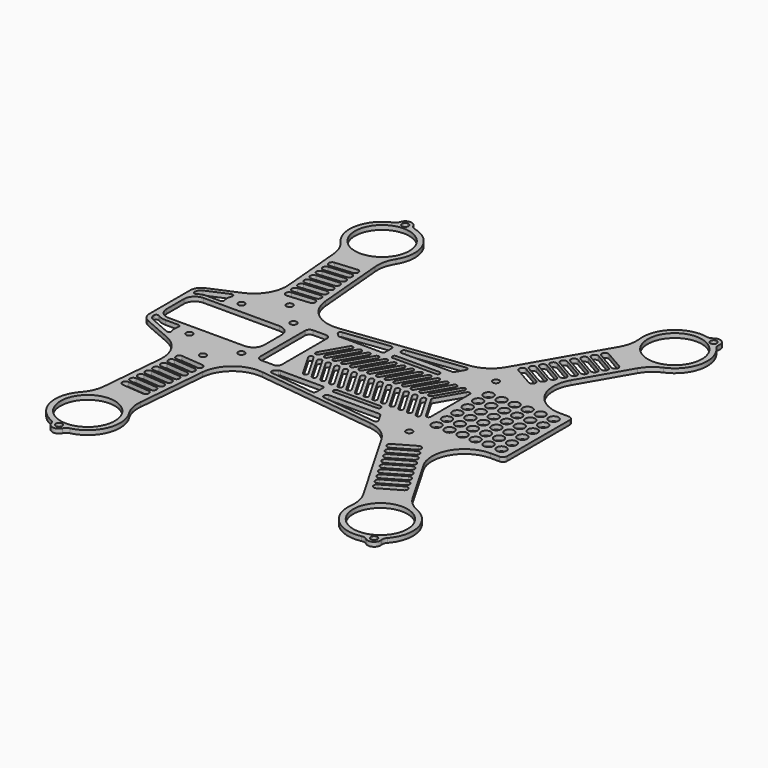
from build123d import *

# Parameters (mm, degrees)
F0_R     = 1.5
F0_R_2   = 12.5
F0_R_3   = 2.242641
F1_DEPTH = 2


with BuildPart() as f1:
    # F0 (on Top) → F1 (new body)
    with BuildSketch(Plane.XY):
        with BuildLine():
            ThreePointArc((-62.396949, -66.154583), (-63.577186, -70.812861), (-66.169935, -74.858868))
            ThreePointArc((-66.169935, -74.858868), (-69.646273, -88.108806), (-60.907895, -98.658048))
            ThreePointArc((-60.907895, -98.658048), (-59.830375, -99.441611), (-59.198405, -100.614485))
            ThreePointArc((-59.198405, -100.614485), (-56.568803, -102.801994), (-53.599294, -101.104344))
            ThreePointArc((-53.599294, -101.104344), (-52.773258, -100.059029), (-51.576044, -99.47448))
            ThreePointArc((-51.576044, -99.47448), (-41.138565, -90.602907), (-42.261262, -76.950606))
            ThreePointArc((-42.261262, -76.950606), (-44.112039, -72.515841), (-44.465444, -67.723387))
            Line((-44.465444, -67.723387), (-41.643975, -35.473847))
            ThreePointArc((-41.643975, -35.473847), (-36.140861, -25.123994), (-24.873015, -21.892991))
            Line((-24.873015, -21.892991), (30.259156, -28.66237))
            ThreePointArc((30.259156, -28.66237), (36.710171, -31.042275), (41.421497, -36.050563))
            Line((41.421497, -36.050563), (63.205771, -73.782032))
            ThreePointArc((63.205771, -73.782032), (64.910856, -78.274827), (65.107695, -83.076261))
            ThreePointArc((65.107695, -83.076261), (69.859898, -95.92392), (83.068755, -99.553226))
            ThreePointArc((83.068755, -99.553226), (84.40084, -99.577043), (85.591253, -100.175322))
            ThreePointArc((85.591253, -100.175322), (89, -100.458947), (90.458747, -97.365073))
            ThreePointArc((90.458747, -97.365073), (90.535829, -96.035006), (91.181245, -94.869477))
            ThreePointArc((91.181245, -94.869477), (94.642603, -81.615618), (85.892305, -71.076261))
            ThreePointArc((85.892305, -71.076261), (81.83256, -68.505076), (78.794229, -64.782032))
            Line((78.794229, -64.782032), (65.929691, -42.5))
            ThreePointArc((65.929691, -42.5), (65.929691, -27.5), (78.920072, -20))
            Line((78.920072, -20), (83, -20))
            ThreePointArc((83, -20), (84.414214, -19.414214), (85, -18))
            Line((85, -18), (85, 0))
            Line((85, 0), (85, 18))
            ThreePointArc((85, 18), (84.414214, 19.414214), (83, 20))
            Line((83, 20), (78.920072, 20))
            ThreePointArc((78.920072, 20), (65.929691, 27.5), (65.929691, 42.5))
            Line((65.929691, 42.5), (78.794229, 64.782032))
            ThreePointArc((78.794229, 64.782032), (81.83256, 68.505076), (85.892305, 71.076261))
            ThreePointArc((85.892305, 71.076261), (94.642603, 81.615618), (91.181245, 94.869477))
            ThreePointArc((91.181245, 94.869477), (90.535829, 96.035006), (90.458747, 97.365073))
            ThreePointArc((90.458747, 97.365073), (89, 100.458947), (85.591253, 100.175322))
            ThreePointArc((85.591253, 100.175322), (84.40084, 99.577043), (83.068755, 99.553226))
            ThreePointArc((83.068755, 99.553226), (69.859898, 95.92392), (65.107695, 83.076261))
            ThreePointArc((65.107695, 83.076261), (64.910856, 78.274827), (63.205771, 73.782032))
            Line((63.205771, 73.782032), (41.421497, 36.050563))
            ThreePointArc((41.421497, 36.050563), (36.710171, 31.042275), (30.259156, 28.66237))
            Line((30.259156, 28.66237), (-24.873015, 21.892991))
            ThreePointArc((-24.873015, 21.892991), (-36.140861, 25.123994), (-41.643975, 35.473847))
            Line((-41.643975, 35.473847), (-44.465444, 67.723387))
            ThreePointArc((-44.465444, 67.723387), (-44.112039, 72.515841), (-42.261262, 76.950606))
            ThreePointArc((-42.261262, 76.950606), (-41.138565, 90.602907), (-51.576044, 99.47448))
            ThreePointArc((-51.576044, 99.47448), (-52.773258, 100.059029), (-53.599294, 101.104344))
            ThreePointArc((-53.599294, 101.104344), (-56.568803, 102.801994), (-59.198405, 100.614485))
            ThreePointArc((-59.198405, 100.614485), (-59.830375, 99.441611), (-60.907895, 98.658048))
            ThreePointArc((-60.907895, 98.658048), (-69.646273, 88.108806), (-66.169935, 74.858868))
            ThreePointArc((-66.169935, 74.858868), (-63.577186, 70.812861), (-62.396949, 66.154583))
            Line((-62.396949, 66.154583), (-59.853056, 37.077755))
            ThreePointArc((-59.853056, 37.077755), (-61.909477, 28.093302), (-68.831225, 22.007362))
            Line((-68.831225, 22.007362), (-81.98825, 16.305258))
            ThreePointArc((-81.98825, 16.305258), (-84.179788, 14.461543), (-85, 11.717572))
            Line((-85, 11.717572), (-85, 0))
            Line((-85, 0), (-85, -11.717572))
            ThreePointArc((-85, -11.717572), (-84.179788, -14.461543), (-81.98825, -16.305258))
            Line((-81.98825, -16.305258), (-68.831225, -22.007362))
            ThreePointArc((-68.831225, -22.007362), (-61.909477, -28.093302), (-59.853056, -37.077755))
            Line((-59.853056, -37.077755), (-62.396949, -66.154583))
        make_face()
        with Locations((-56.307336, -99.81341)):
            Circle(F0_R, mode=Mode.SUBTRACT)
        with Locations((-55, -84.87049)):
            Circle(F0_R_2, mode=Mode.SUBTRACT)
        with BuildLine():
            Line((-47.970867, -61.895693), (-57.932814, -61.024135))
            ThreePointArc((-57.932814, -61.024135), (-59.296372, -59.39911), (-57.671346, -58.035551))
            Line((-57.671346, -58.035551), (-47.709399, -58.907109))
            ThreePointArc((-47.709399, -58.907109), (-46.345841, -60.532134), (-47.970867, -61.895693))
        make_face(mode=Mode.SUBTRACT)
        with BuildLine():
            Line((-47.622244, -57.910914), (-57.584191, -57.039357))
            ThreePointArc((-57.584191, -57.039357), (-58.947749, -55.414331), (-57.322723, -54.050773))
            Line((-57.322723, -54.050773), (-47.360776, -54.92233))
            ThreePointArc((-47.360776, -54.92233), (-45.997218, -56.547356), (-47.622244, -57.910914))
        make_face(mode=Mode.SUBTRACT)
        with BuildLine():
            Line((-47.273621, -53.926135), (-57.235568, -53.054578))
            ThreePointArc((-57.235568, -53.054578), (-58.599126, -51.429552), (-56.9741, -50.065994))
            Line((-56.9741, -50.065994), (-47.012153, -50.937551))
            ThreePointArc((-47.012153, -50.937551), (-45.648595, -52.562577), (-47.273621, -53.926135))
        make_face(mode=Mode.SUBTRACT)
        with BuildLine():
            Line((-46.924998, -49.941357), (-56.886945, -49.069799))
            ThreePointArc((-56.886945, -49.069799), (-58.250503, -47.444773), (-56.625477, -46.081215))
            Line((-56.625477, -46.081215), (-46.66353, -46.952772))
            ThreePointArc((-46.66353, -46.952772), (-45.299972, -48.577798), (-46.924998, -49.941357))
        make_face(mode=Mode.SUBTRACT)
        with BuildLine():
            Line((-46.576375, -45.956578), (-56.538322, -45.08502))
            ThreePointArc((-56.538322, -45.08502), (-57.90188, -43.459995), (-56.276854, -42.096436))
            Line((-56.276854, -42.096436), (-46.314907, -42.967994))
            ThreePointArc((-46.314907, -42.967994), (-44.951349, -44.593019), (-46.576375, -45.956578))
        make_face(mode=Mode.SUBTRACT)
        with BuildLine():
            Line((-46.227752, -41.971799), (-56.189699, -41.100241))
            ThreePointArc((-56.189699, -41.100241), (-57.553257, -39.475216), (-55.928231, -38.111657))
            Line((-55.928231, -38.111657), (-45.966284, -38.983215))
            ThreePointArc((-45.966284, -38.983215), (-44.602726, -40.60824), (-46.227752, -41.971799))
        make_face(mode=Mode.SUBTRACT)
        with BuildLine():
            Line((-45.879129, -37.98702), (-55.841076, -37.115463))
            ThreePointArc((-55.841076, -37.115463), (-57.204634, -35.490437), (-55.579608, -34.126879))
            Line((-55.579608, -34.126879), (-45.617662, -34.998436))
            ThreePointArc((-45.617662, -34.998436), (-44.254103, -36.623462), (-45.879129, -37.98702))
        make_face(mode=Mode.SUBTRACT)
        with BuildLine():
            Line((-45.530506, -34.002241), (-55.492453, -33.130684))
            ThreePointArc((-55.492453, -33.130684), (-56.856011, -31.505658), (-55.230986, -30.1421))
            Line((-55.230986, -30.1421), (-45.269039, -31.013657))
            ThreePointArc((-45.269039, -31.013657), (-43.90548, -32.638683), (-45.530506, -34.002241))
        make_face(mode=Mode.SUBTRACT)
        with BuildLine():
            ThreePointArc((-83, -11.614378), (-82.467707, -10.730495), (-81.4375, -10.787581))
            ThreePointArc((-81.4375, -10.787581), (-79.559968, -11.690032), (-77.5, -12))
            Line((-77.5, -12), (-71.417583, -12))
            ThreePointArc((-71.417583, -12), (-70.623753, -12.39186), (-70.452064, -13.260333))
            ThreePointArc((-70.452064, -13.260333), (-70.674437, -15.327816), (-70.250533, -17.363558))
            ThreePointArc((-70.250533, -17.363558), (-70.495756, -18.44093), (-71.583544, -18.63479))
            Line((-71.583544, -18.63479), (-81.19295, -14.470183))
            ThreePointArc((-81.19295, -14.470183), (-82.507873, -13.363954), (-83, -11.717572))
            Line((-83, -11.717572), (-83, -11.614378))
        make_face(mode=Mode.SUBTRACT)
        with Locations((-64, -15)):
            Circle(F0_R, mode=Mode.SUBTRACT)
        with Locations((-49.762011, -25)):
            Circle(F0_R, mode=Mode.SUBTRACT)
        with Locations((-40, -15)):
            Circle(F0_R, mode=Mode.SUBTRACT)
        with BuildLine():
            Line((-1.121869, -22.794245), (-21.84415, -20.249869))
            ThreePointArc((-21.84415, -20.249869), (-22.667799, -19.582891), (-22.429387, -18.550216))
            Line((-22.429387, -18.550216), (-21.172064, -17.292893))
            ThreePointArc((-21.172064, -17.292893), (-20.847641, -17.07612), (-20.464957, -17))
            Line((-20.464957, -17), (-1, -17))
            ThreePointArc((-1, -17), (-0.292893, -17.292893), (0, -18))
            Line((0, -18), (0, -21.801699))
            ThreePointArc((0, -21.801699), (-0.33738, -22.550655), (-1.121869, -22.794245))
        make_face(mode=Mode.SUBTRACT)
        with BuildLine():
            ThreePointArc((-19.216878, -2.5), (-18.850853, -1.133975), (-17.484828, -1.5))
            Line((-17.484828, -1.5), (-11.133975, -12.5))
            ThreePointArc((-11.133975, -12.5), (-11.5, -13.866025), (-12.866025, -13.5))
            Line((-12.866025, -13.5), (-19.216878, -2.5))
        make_face(mode=Mode.SUBTRACT)
        with BuildLine():
            ThreePointArc((-15.216878, -2.5), (-14.850853, -1.133975), (-13.484828, -1.5))
            Line((-13.484828, -1.5), (-7.133975, -12.5))
            ThreePointArc((-7.133975, -12.5), (-7.5, -13.866025), (-8.866025, -13.5))
            Line((-8.866025, -13.5), (-15.216878, -2.5))
        make_face(mode=Mode.SUBTRACT)
        with BuildLine():
            ThreePointArc((-11.216878, -2.5), (-10.850853, -1.133975), (-9.484828, -1.5))
            Line((-9.484828, -1.5), (-3.133975, -12.5))
            ThreePointArc((-3.133975, -12.5), (-3.5, -13.866025), (-4.866025, -13.5))
            Line((-4.866025, -13.5), (-11.216878, -2.5))
        make_face(mode=Mode.SUBTRACT)
        with BuildLine():
            ThreePointArc((-7.216878, -2.5), (-6.850853, -1.133975), (-5.484828, -1.5))
            Line((-5.484828, -1.5), (0.866025, -12.5))
            ThreePointArc((0.866025, -12.5), (0.5, -13.866025), (-0.866025, -13.5))
            Line((-0.866025, -13.5), (-7.216878, -2.5))
        make_face(mode=Mode.SUBTRACT)
        with BuildLine():
            ThreePointArc((-3.216878, -2.5), (-2.850853, -1.133975), (-1.484828, -1.5))
            Line((-1.484828, -1.5), (4.866025, -12.5))
            ThreePointArc((4.866025, -12.5), (4.5, -13.866025), (3.133975, -13.5))
            Line((3.133975, -13.5), (-3.216878, -2.5))
        make_face(mode=Mode.SUBTRACT)
        with BuildLine():
            ThreePointArc((0.783122, -2.5), (1.149147, -1.133975), (2.515172, -1.5))
            Line((2.515172, -1.5), (8.866025, -12.5))
            ThreePointArc((8.866025, -12.5), (8.5, -13.866025), (7.133975, -13.5))
            Line((7.133975, -13.5), (0.783122, -2.5))
        make_face(mode=Mode.SUBTRACT)
        with Locations((87.5, -97.860871)):
            Circle(F0_R, mode=Mode.SUBTRACT)
        with Locations((80, -84.87049)):
            Circle(F0_R_2, mode=Mode.SUBTRACT)
        with BuildLine():
            Line((70.580127, -58.554791), (61.919873, -63.554791))
            ThreePointArc((61.919873, -63.554791), (59.870835, -63.005753), (60.419873, -60.956715))
            Line((60.419873, -60.956715), (69.080127, -55.956715))
            ThreePointArc((69.080127, -55.956715), (71.129165, -56.505753), (70.580127, -58.554791))
        make_face(mode=Mode.SUBTRACT)
        with BuildLine():
            Line((72.580127, -62.018893), (63.919873, -67.018893))
            ThreePointArc((63.919873, -67.018893), (61.870835, -66.469854), (62.419873, -64.420816))
            Line((62.419873, -64.420816), (71.080127, -59.420816))
            ThreePointArc((71.080127, -59.420816), (73.129165, -59.969854), (72.580127, -62.018893))
        make_face(mode=Mode.SUBTRACT)
        with BuildLine():
            Line((68.580127, -55.090689), (59.919873, -60.090689))
            ThreePointArc((59.919873, -60.090689), (57.870835, -59.541651), (58.419873, -57.492613))
            Line((58.419873, -57.492613), (67.080127, -52.492613))
            ThreePointArc((67.080127, -52.492613), (69.129165, -53.041651), (68.580127, -55.090689))
        make_face(mode=Mode.SUBTRACT)
        with BuildLine():
            Line((66.580127, -51.626588), (57.919873, -56.626588))
            ThreePointArc((57.919873, -56.626588), (55.870835, -56.07755), (56.419873, -54.028512))
            Line((56.419873, -54.028512), (65.080127, -49.028512))
            ThreePointArc((65.080127, -49.028512), (67.129165, -49.57755), (66.580127, -51.626588))
        make_face(mode=Mode.SUBTRACT)
        with BuildLine():
            Line((25, -18), (5, -18))
            ThreePointArc((5, -18), (4, -17), (5, -16))
            Line((5, -16), (25, -16))
            ThreePointArc((25, -16), (26, -17), (25, -18))
        make_face(mode=Mode.SUBTRACT)
        with BuildLine():
            ThreePointArc((4.878131, -23.530953), (4.251044, -23.201027), (4, -22.538406))
            Line((4, -22.538406), (4, -22))
            ThreePointArc((4, -22), (4.292893, -21.292893), (5, -21))
            Line((5, -21), (28.42265, -21))
            ThreePointArc((28.42265, -21), (28.92265, -21.133975), (29.288675, -21.5))
            Line((29.288675, -21.5), (31.410354, -25.174856))
            ThreePointArc((31.410354, -25.174856), (31.378214, -26.226793), (30.422459, -26.667402))
            Line((30.422459, -26.667402), (4.878131, -23.530953))
        make_face(mode=Mode.SUBTRACT)
        with BuildLine():
            ThreePointArc((4.783122, -2.5), (5.149147, -1.133975), (6.515172, -1.5))
            Line((6.515172, -1.5), (12.866025, -12.5))
            ThreePointArc((12.866025, -12.5), (12.5, -13.866025), (11.133975, -13.5))
            Line((11.133975, -13.5), (4.783122, -2.5))
        make_face(mode=Mode.SUBTRACT)
        with BuildLine():
            ThreePointArc((8.783122, -2.5), (9.149147, -1.133975), (10.515172, -1.5))
            Line((10.515172, -1.5), (16.866025, -12.5))
            ThreePointArc((16.866025, -12.5), (16.5, -13.866025), (15.133975, -13.5))
            Line((15.133975, -13.5), (8.783122, -2.5))
        make_face(mode=Mode.SUBTRACT)
        with BuildLine():
            ThreePointArc((12.783122, -2.5), (13.149147, -1.133975), (14.515172, -1.5))
            Line((14.515172, -1.5), (20.866025, -12.5))
            ThreePointArc((20.866025, -12.5), (20.5, -13.866025), (19.133975, -13.5))
            Line((19.133975, -13.5), (12.783122, -2.5))
        make_face(mode=Mode.SUBTRACT)
        with BuildLine():
            ThreePointArc((16.783122, -2.5), (17.149147, -1.133975), (18.515172, -1.5))
            Line((18.515172, -1.5), (24.866025, -12.5))
            ThreePointArc((24.866025, -12.5), (24.5, -13.866025), (23.133975, -13.5))
            Line((23.133975, -13.5), (16.783122, -2.5))
        make_face(mode=Mode.SUBTRACT)
        with BuildLine():
            ThreePointArc((20.783122, -2.5), (21.149147, -1.133975), (22.515172, -1.5))
            Line((22.515172, -1.5), (28.866025, -12.5))
            ThreePointArc((28.866025, -12.5), (28.5, -13.866025), (27.133975, -13.5))
            Line((27.133975, -13.5), (20.783122, -2.5))
        make_face(mode=Mode.SUBTRACT)
        with Locations((45.433757, -25)):
            Circle(F0_R, mode=Mode.SUBTRACT)
        with BuildLine():
            ThreePointArc((24.783122, -2.5), (25.149147, -1.133975), (26.515172, -1.5))
            Line((26.515172, -1.5), (32.866025, -12.5))
            ThreePointArc((32.866025, -12.5), (32.5, -13.866025), (31.133975, -13.5))
            Line((31.133975, -13.5), (24.783122, -2.5))
        make_face(mode=Mode.SUBTRACT)
        with BuildLine():
            ThreePointArc((28.783122, -2.5), (29.149147, -1.133975), (30.515172, -1.5))
            Line((30.515172, -1.5), (36.866025, -12.5))
            ThreePointArc((36.866025, -12.5), (36.5, -13.866025), (35.133975, -13.5))
            Line((35.133975, -13.5), (28.783122, -2.5))
        make_face(mode=Mode.SUBTRACT)
        with BuildLine():
            Line((39.133975, -13.5), (32.783122, -2.5))
            ThreePointArc((32.783122, -2.5), (33.149147, -1.133975), (34.515172, -1.5))
            Line((34.515172, -1.5), (40.866025, -12.5))
            ThreePointArc((40.866025, -12.5), (40.5, -13.866025), (39.133975, -13.5))
        make_face(mode=Mode.SUBTRACT)
        with BuildLine():
            Line((44.309401, 11.267949), (44.309401, -11.267949))
            ThreePointArc((44.309401, -11.267949), (43.56822, -12.233875), (42.443376, -11.767949))
            Line((42.443376, -11.767949), (35.937822, -0.5))
            ThreePointArc((35.937822, -0.5), (35.803848, 0), (35.937822, 0.5))
            Line((35.937822, 0.5), (42.443376, 11.767949))
            ThreePointArc((42.443376, 11.767949), (43.56822, 12.233875), (44.309401, 11.267949))
        make_face(mode=Mode.SUBTRACT)
        with BuildLine():
            Line((64.580127, -48.162486), (55.919873, -53.162486))
            ThreePointArc((55.919873, -53.162486), (53.870835, -52.613448), (54.419873, -50.56441))
            Line((54.419873, -50.56441), (63.080127, -45.56441))
            ThreePointArc((63.080127, -45.56441), (65.129165, -46.113448), (64.580127, -48.162486))
        make_face(mode=Mode.SUBTRACT)
        with BuildLine():
            Line((62.580127, -44.698385), (53.919873, -49.698385))
            ThreePointArc((53.919873, -49.698385), (51.870835, -49.149346), (52.419873, -47.100308))
            Line((52.419873, -47.100308), (61.080127, -42.100308))
            ThreePointArc((61.080127, -42.100308), (63.129165, -42.649346), (62.580127, -44.698385))
        make_face(mode=Mode.SUBTRACT)
        with BuildLine():
            Line((60.580127, -41.234283), (51.919873, -46.234283))
            ThreePointArc((51.919873, -46.234283), (49.870835, -45.685245), (50.419873, -43.636207))
            Line((50.419873, -43.636207), (59.080127, -38.636207))
            ThreePointArc((59.080127, -38.636207), (61.129165, -39.185245), (60.580127, -41.234283))
        make_face(mode=Mode.SUBTRACT)
        with BuildLine():
            Line((58.580127, -37.770181), (49.919873, -42.770181))
            ThreePointArc((49.919873, -42.770181), (47.870835, -42.221143), (48.419873, -40.172105))
            Line((48.419873, -40.172105), (57.080127, -35.172105))
            ThreePointArc((57.080127, -35.172105), (59.129165, -35.721143), (58.580127, -37.770181))
        make_face(mode=Mode.SUBTRACT)
        with BuildLine():
            Line((56.580127, -34.30608), (47.919873, -39.30608))
            ThreePointArc((47.919873, -39.30608), (45.870835, -38.757042), (46.419873, -36.708003))
            Line((46.419873, -36.708003), (55.080127, -31.708003))
            ThreePointArc((55.080127, -31.708003), (57.129165, -32.257042), (56.580127, -34.30608))
        make_face(mode=Mode.SUBTRACT)
        with Locations((50, -15)):
            Circle(F0_R_3, mode=Mode.SUBTRACT)
        with Locations((56, -15)):
            Circle(F0_R_3, mode=Mode.SUBTRACT)
        with Locations((62, -15)):
            Circle(F0_R_3, mode=Mode.SUBTRACT)
        with Locations((68, -15)):
            Circle(F0_R_3, mode=Mode.SUBTRACT)
        with Locations((50, -9)):
            Circle(F0_R_3, mode=Mode.SUBTRACT)
        with Locations((56, -9)):
            Circle(F0_R_3, mode=Mode.SUBTRACT)
        with Locations((50, -3)):
            Circle(F0_R_3, mode=Mode.SUBTRACT)
        with Locations((56, -3)):
            Circle(F0_R_3, mode=Mode.SUBTRACT)
        with Locations((62, -9)):
            Circle(F0_R_3, mode=Mode.SUBTRACT)
        with Locations((68, -9)):
            Circle(F0_R_3, mode=Mode.SUBTRACT)
        with Locations((62, -3)):
            Circle(F0_R_3, mode=Mode.SUBTRACT)
        with Locations((68, -3)):
            Circle(F0_R_3, mode=Mode.SUBTRACT)
        with Locations((74, -15)):
            Circle(F0_R_3, mode=Mode.SUBTRACT)
        with Locations((80, -15)):
            Circle(F0_R_3, mode=Mode.SUBTRACT)
        with Locations((74, -9)):
            Circle(F0_R_3, mode=Mode.SUBTRACT)
        with Locations((80, -9)):
            Circle(F0_R_3, mode=Mode.SUBTRACT)
        with Locations((74, -3)):
            Circle(F0_R_3, mode=Mode.SUBTRACT)
        with Locations((80, -3)):
            Circle(F0_R_3, mode=Mode.SUBTRACT)
        with BuildLine():
            ThreePointArc((-70.452064, 13.260333), (-70.623753, 12.39186), (-71.417583, 12))
            Line((-71.417583, 12), (-77.5, 12))
            ThreePointArc((-77.5, 12), (-79.559968, 11.690032), (-81.4375, 10.787581))
            ThreePointArc((-81.4375, 10.787581), (-82.467707, 10.730495), (-83, 11.614378))
            Line((-83, 11.614378), (-83, 11.717572))
            ThreePointArc((-83, 11.717572), (-82.507873, 13.363954), (-81.19295, 14.470183))
            Line((-81.19295, 14.470183), (-71.583544, 18.63479))
            ThreePointArc((-71.583544, 18.63479), (-70.495756, 18.44093), (-70.250533, 17.363558))
            ThreePointArc((-70.250533, 17.363558), (-70.674437, 15.327816), (-70.452064, 13.260333))
        make_face(mode=Mode.SUBTRACT)
        with Locations((-64, 15)):
            Circle(F0_R, mode=Mode.SUBTRACT)
        with BuildLine():
            ThreePointArc((-37.5, -5), (-38.964466, -8.535534), (-42.5, -10))
            Line((-42.5, -10), (-77.5, -10))
            ThreePointArc((-77.5, -10), (-81.035534, -8.535534), (-82.5, -5))
            Line((-82.5, -5), (-82.5, 5))
            ThreePointArc((-82.5, 5), (-81.035534, 8.535534), (-77.5, 10))
            Line((-77.5, 10), (-42.5, 10))
            ThreePointArc((-42.5, 10), (-38.964466, 8.535534), (-37.5, 5))
            Line((-37.5, 5), (-37.5, -5))
        make_face(mode=Mode.SUBTRACT)
        with Locations((-49.762011, 25)):
            Circle(F0_R, mode=Mode.SUBTRACT)
        with BuildLine():
            Line((-45.269039, 31.013657), (-55.230986, 30.1421))
            ThreePointArc((-55.230986, 30.1421), (-56.856011, 31.505658), (-55.492453, 33.130684))
            Line((-55.492453, 33.130684), (-45.530506, 34.002241))
            ThreePointArc((-45.530506, 34.002241), (-43.90548, 32.638683), (-45.269039, 31.013657))
        make_face(mode=Mode.SUBTRACT)
        with BuildLine():
            Line((-45.617662, 34.998436), (-55.579608, 34.126879))
            ThreePointArc((-55.579608, 34.126879), (-57.204634, 35.490437), (-55.841076, 37.115463))
            Line((-55.841076, 37.115463), (-45.879129, 37.98702))
            ThreePointArc((-45.879129, 37.98702), (-44.254103, 36.623462), (-45.617662, 34.998436))
        make_face(mode=Mode.SUBTRACT)
        with BuildLine():
            Line((-46.314907, 42.967994), (-56.276854, 42.096436))
            ThreePointArc((-56.276854, 42.096436), (-57.90188, 43.459995), (-56.538322, 45.08502))
            Line((-56.538322, 45.08502), (-46.576375, 45.956578))
            ThreePointArc((-46.576375, 45.956578), (-44.951349, 44.593019), (-46.314907, 42.967994))
        make_face(mode=Mode.SUBTRACT)
        with BuildLine():
            ThreePointArc((-56.625477, 46.081215), (-58.250503, 47.444773), (-56.886945, 49.069799))
            Line((-56.886945, 49.069799), (-46.924998, 49.941357))
            ThreePointArc((-46.924998, 49.941357), (-45.299972, 48.577798), (-46.66353, 46.952772))
            Line((-46.66353, 46.952772), (-56.625477, 46.081215))
        make_face(mode=Mode.SUBTRACT)
        with BuildLine():
            Line((-45.966284, 38.983215), (-55.928231, 38.111657))
            ThreePointArc((-55.928231, 38.111657), (-57.553257, 39.475216), (-56.189699, 41.100241))
            Line((-56.189699, 41.100241), (-46.227752, 41.971799))
            ThreePointArc((-46.227752, 41.971799), (-44.602726, 40.60824), (-45.966284, 38.983215))
        make_face(mode=Mode.SUBTRACT)
        with BuildLine():
            Line((-25, -15), (-31, -15))
            ThreePointArc((-31, -15), (-32.414214, -14.414214), (-33, -13))
            Line((-33, -13), (-33, 13))
            ThreePointArc((-33, 13), (-32.414214, 14.414214), (-31, 15))
            Line((-31, 15), (-25, 15))
            ThreePointArc((-25, 15), (-23.585786, 14.414214), (-23, 13))
            Line((-23, 13), (-23, -13))
            ThreePointArc((-23, -13), (-23.585786, -14.414214), (-25, -15))
        make_face(mode=Mode.SUBTRACT)
        with Locations((-40, 15)):
            Circle(F0_R, mode=Mode.SUBTRACT)
        with BuildLine():
            ThreePointArc((-12.866025, 13.5), (-11.5, 13.866025), (-11.133975, 12.5))
            Line((-11.133975, 12.5), (-17.484828, 1.5))
            ThreePointArc((-17.484828, 1.5), (-18.850853, 1.133975), (-19.216878, 2.5))
            Line((-19.216878, 2.5), (-12.866025, 13.5))
        make_face(mode=Mode.SUBTRACT)
        with BuildLine():
            ThreePointArc((-8.866025, 13.5), (-7.5, 13.866025), (-7.133975, 12.5))
            Line((-7.133975, 12.5), (-13.484828, 1.5))
            ThreePointArc((-13.484828, 1.5), (-14.850853, 1.133975), (-15.216878, 2.5))
            Line((-15.216878, 2.5), (-8.866025, 13.5))
        make_face(mode=Mode.SUBTRACT)
        with BuildLine():
            ThreePointArc((-9.484828, 1.5), (-10.850853, 1.133975), (-11.216878, 2.5))
            Line((-11.216878, 2.5), (-4.866025, 13.5))
            ThreePointArc((-4.866025, 13.5), (-3.5, 13.866025), (-3.133975, 12.5))
            Line((-3.133975, 12.5), (-9.484828, 1.5))
        make_face(mode=Mode.SUBTRACT)
        with BuildLine():
            ThreePointArc((-0.866025, 13.5), (0.5, 13.866025), (0.866025, 12.5))
            Line((0.866025, 12.5), (-5.484828, 1.5))
            ThreePointArc((-5.484828, 1.5), (-6.850853, 1.133975), (-7.216878, 2.5))
            Line((-7.216878, 2.5), (-0.866025, 13.5))
        make_face(mode=Mode.SUBTRACT)
        with BuildLine():
            ThreePointArc((3.133975, 13.5), (4.5, 13.866025), (4.866025, 12.5))
            Line((4.866025, 12.5), (-1.484828, 1.5))
            ThreePointArc((-1.484828, 1.5), (-2.850853, 1.133975), (-3.216878, 2.5))
            Line((-3.216878, 2.5), (3.133975, 13.5))
        make_face(mode=Mode.SUBTRACT)
        with BuildLine():
            ThreePointArc((2.515172, 1.5), (1.149147, 1.133975), (0.783122, 2.5))
            Line((0.783122, 2.5), (7.133975, 13.5))
            ThreePointArc((7.133975, 13.5), (8.5, 13.866025), (8.866025, 12.5))
            Line((8.866025, 12.5), (2.515172, 1.5))
        make_face(mode=Mode.SUBTRACT)
        with BuildLine():
            Line((0, 21.801699), (0, 18))
            ThreePointArc((0, 18), (-0.292893, 17.292893), (-1, 17))
            Line((-1, 17), (-20.464957, 17))
            ThreePointArc((-20.464957, 17), (-20.847641, 17.07612), (-21.172064, 17.292893))
            Line((-21.172064, 17.292893), (-22.429387, 18.550216))
            ThreePointArc((-22.429387, 18.550216), (-22.667799, 19.582891), (-21.84415, 20.249869))
            Line((-21.84415, 20.249869), (-1.121869, 22.794245))
            ThreePointArc((-1.121869, 22.794245), (-0.33738, 22.550655), (0, 21.801699))
        make_face(mode=Mode.SUBTRACT)
        with BuildLine():
            ThreePointArc((-56.9741, 50.065994), (-58.599126, 51.429552), (-57.235568, 53.054578))
            Line((-57.235568, 53.054578), (-47.273621, 53.926135))
            ThreePointArc((-47.273621, 53.926135), (-45.648595, 52.562577), (-47.012153, 50.937551))
            Line((-47.012153, 50.937551), (-56.9741, 50.065994))
        make_face(mode=Mode.SUBTRACT)
        with BuildLine():
            Line((-47.360776, 54.92233), (-57.322723, 54.050773))
            ThreePointArc((-57.322723, 54.050773), (-58.947749, 55.414331), (-57.584191, 57.039357))
            Line((-57.584191, 57.039357), (-47.622244, 57.910914))
            ThreePointArc((-47.622244, 57.910914), (-45.997218, 56.547356), (-47.360776, 54.92233))
        make_face(mode=Mode.SUBTRACT)
        with BuildLine():
            Line((-47.709399, 58.907109), (-57.671346, 58.035551))
            ThreePointArc((-57.671346, 58.035551), (-59.296372, 59.39911), (-57.932814, 61.024135))
            Line((-57.932814, 61.024135), (-47.970867, 61.895693))
            ThreePointArc((-47.970867, 61.895693), (-46.345841, 60.532134), (-47.709399, 58.907109))
        make_face(mode=Mode.SUBTRACT)
        with Locations((-55, 84.87049)):
            Circle(F0_R_2, mode=Mode.SUBTRACT)
        with Locations((-56.307336, 99.81341)):
            Circle(F0_R, mode=Mode.SUBTRACT)
        with BuildLine():
            ThreePointArc((6.515172, 1.5), (5.149147, 1.133975), (4.783122, 2.5))
            Line((4.783122, 2.5), (11.133975, 13.5))
            ThreePointArc((11.133975, 13.5), (12.5, 13.866025), (12.866025, 12.5))
            Line((12.866025, 12.5), (6.515172, 1.5))
        make_face(mode=Mode.SUBTRACT)
        with BuildLine():
            ThreePointArc((15.133975, 13.5), (16.5, 13.866025), (16.866025, 12.5))
            Line((16.866025, 12.5), (10.515172, 1.5))
            ThreePointArc((10.515172, 1.5), (9.149147, 1.133975), (8.783122, 2.5))
            Line((8.783122, 2.5), (15.133975, 13.5))
        make_face(mode=Mode.SUBTRACT)
        with BuildLine():
            ThreePointArc((19.133975, 13.5), (20.5, 13.866025), (20.866025, 12.5))
            Line((20.866025, 12.5), (14.515172, 1.5))
            ThreePointArc((14.515172, 1.5), (13.149147, 1.133975), (12.783122, 2.5))
            Line((12.783122, 2.5), (19.133975, 13.5))
        make_face(mode=Mode.SUBTRACT)
        with BuildLine():
            ThreePointArc((18.515172, 1.5), (17.149147, 1.133975), (16.783122, 2.5))
            Line((16.783122, 2.5), (23.133975, 13.5))
            ThreePointArc((23.133975, 13.5), (24.5, 13.866025), (24.866025, 12.5))
            Line((24.866025, 12.5), (18.515172, 1.5))
        make_face(mode=Mode.SUBTRACT)
        with BuildLine():
            ThreePointArc((22.515172, 1.5), (21.149147, 1.133975), (20.783122, 2.5))
            Line((20.783122, 2.5), (27.133975, 13.5))
            ThreePointArc((27.133975, 13.5), (28.5, 13.866025), (28.866025, 12.5))
            Line((28.866025, 12.5), (22.515172, 1.5))
        make_face(mode=Mode.SUBTRACT)
        with BuildLine():
            Line((25, 16), (5, 16))
            ThreePointArc((5, 16), (4, 17), (5, 18))
            Line((5, 18), (25, 18))
            ThreePointArc((25, 18), (26, 17), (25, 16))
        make_face(mode=Mode.SUBTRACT)
        with BuildLine():
            Line((31.410354, 25.174856), (29.288675, 21.5))
            ThreePointArc((29.288675, 21.5), (28.92265, 21.133975), (28.42265, 21))
            Line((28.42265, 21), (5, 21))
            ThreePointArc((5, 21), (4.292893, 21.292893), (4, 22))
            Line((4, 22), (4, 22.538406))
            ThreePointArc((4, 22.538406), (4.251044, 23.201027), (4.878131, 23.530953))
            Line((4.878131, 23.530953), (30.422459, 26.667402))
            ThreePointArc((30.422459, 26.667402), (31.378214, 26.226793), (31.410354, 25.174856))
        make_face(mode=Mode.SUBTRACT)
        with BuildLine():
            ThreePointArc((31.133975, 13.5), (32.5, 13.866025), (32.866025, 12.5))
            Line((32.866025, 12.5), (26.515172, 1.5))
            ThreePointArc((26.515172, 1.5), (25.149147, 1.133975), (24.783122, 2.5))
            Line((24.783122, 2.5), (31.133975, 13.5))
        make_face(mode=Mode.SUBTRACT)
        with BuildLine():
            ThreePointArc((35.133975, 13.5), (36.5, 13.866025), (36.866025, 12.5))
            Line((36.866025, 12.5), (30.515172, 1.5))
            ThreePointArc((30.515172, 1.5), (29.149147, 1.133975), (28.783122, 2.5))
            Line((28.783122, 2.5), (35.133975, 13.5))
        make_face(mode=Mode.SUBTRACT)
        with BuildLine():
            ThreePointArc((39.133975, 13.5), (40.5, 13.866025), (40.866025, 12.5))
            Line((40.866025, 12.5), (34.515172, 1.5))
            ThreePointArc((34.515172, 1.5), (33.149147, 1.133975), (32.783122, 2.5))
            Line((32.783122, 2.5), (39.133975, 13.5))
        make_face(mode=Mode.SUBTRACT)
        with Locations((45.433757, 25)):
            Circle(F0_R, mode=Mode.SUBTRACT)
        with Locations((50, 3)):
            Circle(F0_R_3, mode=Mode.SUBTRACT)
        with Locations((56, 3)):
            Circle(F0_R_3, mode=Mode.SUBTRACT)
        with Locations((50, 9)):
            Circle(F0_R_3, mode=Mode.SUBTRACT)
        with Locations((56, 9)):
            Circle(F0_R_3, mode=Mode.SUBTRACT)
        with Locations((62, 3)):
            Circle(F0_R_3, mode=Mode.SUBTRACT)
        with Locations((68, 3)):
            Circle(F0_R_3, mode=Mode.SUBTRACT)
        with Locations((62, 9)):
            Circle(F0_R_3, mode=Mode.SUBTRACT)
        with Locations((68, 9)):
            Circle(F0_R_3, mode=Mode.SUBTRACT)
        with Locations((50, 15)):
            Circle(F0_R_3, mode=Mode.SUBTRACT)
        with Locations((56, 15)):
            Circle(F0_R_3, mode=Mode.SUBTRACT)
        with Locations((62, 15)):
            Circle(F0_R_3, mode=Mode.SUBTRACT)
        with Locations((68, 15)):
            Circle(F0_R_3, mode=Mode.SUBTRACT)
        with Locations((74, 3)):
            Circle(F0_R_3, mode=Mode.SUBTRACT)
        with Locations((80, 3)):
            Circle(F0_R_3, mode=Mode.SUBTRACT)
        with Locations((74, 9)):
            Circle(F0_R_3, mode=Mode.SUBTRACT)
        with Locations((80, 9)):
            Circle(F0_R_3, mode=Mode.SUBTRACT)
        with Locations((74, 15)):
            Circle(F0_R_3, mode=Mode.SUBTRACT)
        with Locations((80, 15)):
            Circle(F0_R_3, mode=Mode.SUBTRACT)
        with BuildLine():
            Line((55.080127, 31.708003), (46.419873, 36.708003))
            ThreePointArc((46.419873, 36.708003), (45.870835, 38.757042), (47.919873, 39.30608))
            Line((47.919873, 39.30608), (56.580127, 34.30608))
            ThreePointArc((56.580127, 34.30608), (57.129165, 32.257042), (55.080127, 31.708003))
        make_face(mode=Mode.SUBTRACT)
        with BuildLine():
            ThreePointArc((48.419873, 40.172105), (47.870835, 42.221143), (49.919873, 42.770181))
            Line((49.919873, 42.770181), (58.580127, 37.770181))
            ThreePointArc((58.580127, 37.770181), (59.129165, 35.721143), (57.080127, 35.172105))
            Line((57.080127, 35.172105), (48.419873, 40.172105))
        make_face(mode=Mode.SUBTRACT)
        with BuildLine():
            ThreePointArc((50.419873, 43.636207), (49.870835, 45.685245), (51.919873, 46.234283))
            Line((51.919873, 46.234283), (60.580127, 41.234283))
            ThreePointArc((60.580127, 41.234283), (61.129165, 39.185245), (59.080127, 38.636207))
            Line((59.080127, 38.636207), (50.419873, 43.636207))
        make_face(mode=Mode.SUBTRACT)
        with BuildLine():
            ThreePointArc((62.580127, 44.698385), (63.129165, 42.649346), (61.080127, 42.100308))
            Line((61.080127, 42.100308), (52.419873, 47.100308))
            ThreePointArc((52.419873, 47.100308), (51.870835, 49.149346), (53.919873, 49.698385))
            Line((53.919873, 49.698385), (62.580127, 44.698385))
        make_face(mode=Mode.SUBTRACT)
        with BuildLine():
            ThreePointArc((54.419873, 50.56441), (53.870835, 52.613448), (55.919873, 53.162486))
            Line((55.919873, 53.162486), (64.580127, 48.162486))
            ThreePointArc((64.580127, 48.162486), (65.129165, 46.113448), (63.080127, 45.56441))
            Line((63.080127, 45.56441), (54.419873, 50.56441))
        make_face(mode=Mode.SUBTRACT)
        with BuildLine():
            ThreePointArc((66.580127, 51.626588), (67.129165, 49.57755), (65.080127, 49.028512))
            Line((65.080127, 49.028512), (56.419873, 54.028512))
            ThreePointArc((56.419873, 54.028512), (55.870835, 56.07755), (57.919873, 56.626588))
            Line((57.919873, 56.626588), (66.580127, 51.626588))
        make_face(mode=Mode.SUBTRACT)
        with BuildLine():
            ThreePointArc((68.580127, 55.090689), (69.129165, 53.041651), (67.080127, 52.492613))
            Line((67.080127, 52.492613), (58.419873, 57.492613))
            ThreePointArc((58.419873, 57.492613), (57.870835, 59.541651), (59.919873, 60.090689))
            Line((59.919873, 60.090689), (68.580127, 55.090689))
        make_face(mode=Mode.SUBTRACT)
        with BuildLine():
            ThreePointArc((60.419873, 60.956715), (59.870835, 63.005753), (61.919873, 63.554791))
            Line((61.919873, 63.554791), (70.580127, 58.554791))
            ThreePointArc((70.580127, 58.554791), (71.129165, 56.505753), (69.080127, 55.956715))
            Line((69.080127, 55.956715), (60.419873, 60.956715))
        make_face(mode=Mode.SUBTRACT)
        with BuildLine():
            ThreePointArc((72.580127, 62.018893), (73.129165, 59.969854), (71.080127, 59.420816))
            Line((71.080127, 59.420816), (62.419873, 64.420816))
            ThreePointArc((62.419873, 64.420816), (61.870835, 66.469854), (63.919873, 67.018893))
            Line((63.919873, 67.018893), (72.580127, 62.018893))
        make_face(mode=Mode.SUBTRACT)
        with Locations((80, 84.87049)):
            Circle(F0_R_2, mode=Mode.SUBTRACT)
        with Locations((87.5, 97.860871)):
            Circle(F0_R, mode=Mode.SUBTRACT)
    extrude(amount=F1_DEPTH)


solid = f1.part
